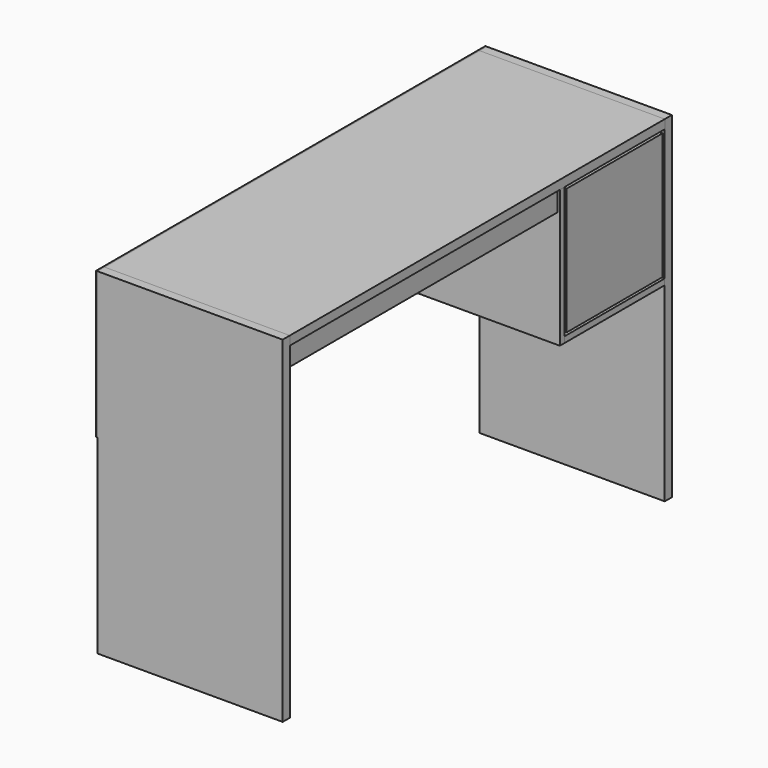
from build123d import *

# Parameters (mm, degrees)
F0_W      = 395
F0_H      = 718
F1_DEPTH  = 19.05
F3_W      = 395
F3_H      = 1000
F4_DEPTH  = 19
F5_W      = 395
F5_H      = 12.7
F6_DEPTH  = 293
F7_W      = 267
F7_H      = 12.7
F8_DEPTH  = 395
F9_W      = 1038
F9_H      = 312
F10_DEPTH = 3
F11_W     = 256
F11_H     = 270
F12_DEPTH = 12.7
F13_W     = 12.7
F13_H     = 44
F14_DEPTH = 725


with BuildPart() as f1:
    # F0 (on Front) → F1 (new body)
    with BuildSketch(Plane.XZ):
        Rectangle(F0_W, F0_H)
    extrude(amount=F1_DEPTH)


with BuildPart() as f2_1:
    # F2: copy of F1
    add(f1.part.moved(Location((0, 1019, 0))))


with BuildPart() as f4:
    # F3 (on face) → F4 (new body)
    with BuildSketch(Plane.XY.offset(359)):
        with Locations((0, 500)):
            Rectangle(F3_W, F3_H)
    extrude(amount=-F4_DEPTH)


with BuildPart() as f6:
    # F5 (on face) → F6 (new body)
    with BuildSketch(Plane(origin=(0, 0, 340), x_dir=(1, 0, 0), z_dir=(0, 0, -1))):
        with Locations((0, -726.6)):
            Rectangle(F5_W, F5_H)
    extrude(amount=F6_DEPTH)


with BuildPart() as f8:
    # F7 (on face) → F8 (new body)
    with BuildSketch(Plane.YZ.offset(197.5)):
        with Locations((866.45, 53.35)):
            Rectangle(F7_W, F7_H)
    extrude(amount=-F8_DEPTH)


with BuildPart() as f10:
    # F9 (on face) → F10 (new body)
    with BuildSketch(Plane(origin=(-197.5, 0, 0), x_dir=(0, -1, 0), z_dir=(-1, 0, 0))):
        with Locations((-500, 203)):
            Rectangle(F9_W, F9_H)
    extrude(amount=F10_DEPTH)


with BuildPart() as f12:
    # F11 (on face) → F12 (new body)
    with BuildSketch(Plane.YZ.offset(197.5)):
        with Locations((866.45, 199.7)):
            Rectangle(F11_W, F11_H)
    extrude(amount=-F12_DEPTH)


with BuildPart() as f14:
    # F13 (on face) → F14 (new body)
    with BuildSketch(Plane.XZ):
        with Locations((186.15, 318)):
            Rectangle(F13_W, F13_H)
    extrude(amount=-F14_DEPTH)


solid = Compound([f1.part, f2_1.part, f4.part, f6.part, f8.part, f10.part, f12.part, f14.part])
